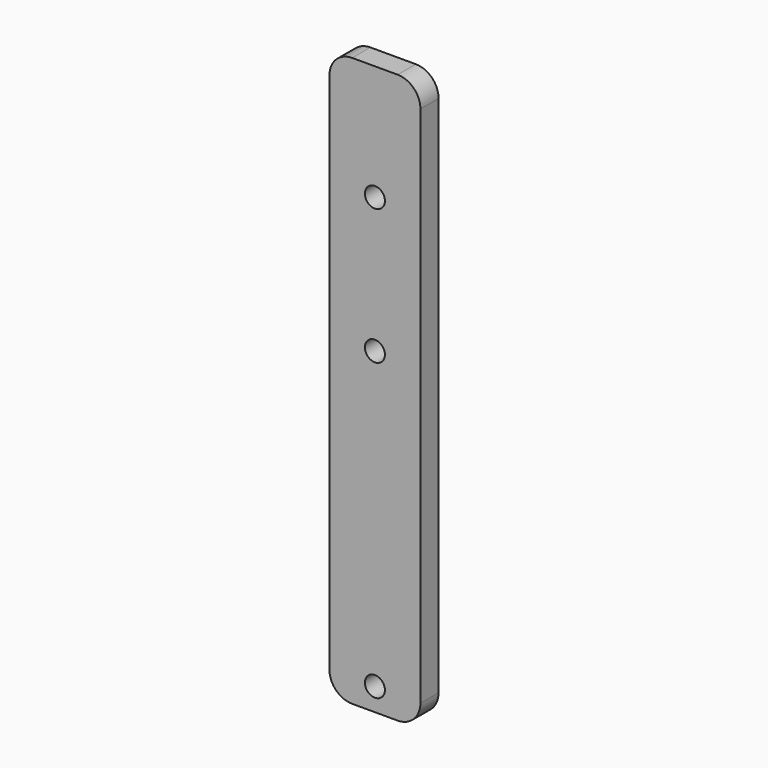
from build123d import *

# Parameters (mm, degrees)
F0_W     = 20
F0_H     = 125
F0_R     = 2.2
F1_DEPTH = 5
F2_R     = 5


with BuildPart() as f1:
    # F0 (on Front) → F1 (new body)
    with BuildSketch(Plane.XZ):
        Rectangle(F0_W, F0_H)
        with Locations((0, -57.5)):
            Circle(F0_R, mode=Mode.SUBTRACT)
        with Locations((0, 7.4)):
            Circle(F0_R, mode=Mode.SUBTRACT)
        with Locations((0, 37.15)):
            Circle(F0_R, mode=Mode.SUBTRACT)
    extrude(amount=F1_DEPTH)

    # F2
    f2_edges = [f1.edges().sort_by_distance(p)[0] for p in [
        (-10, -2.5, 62.5),
        (10, -2.5, 62.5),
        (-10, -2.5, -62.5),
        (10, -2.5, -62.5),
    ]]
    fillet(f2_edges, radius=F2_R)


solid = f1.part
